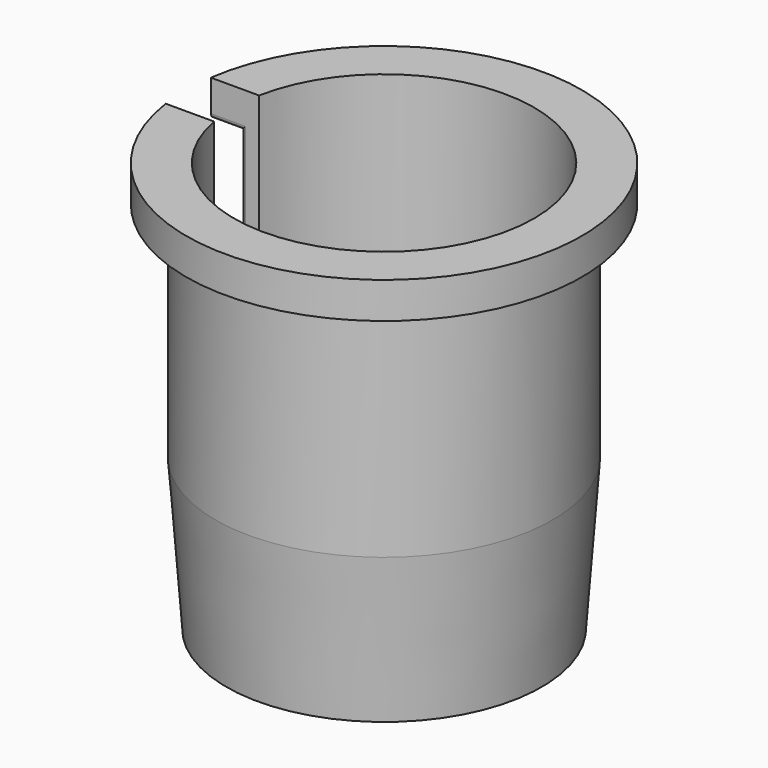
from build123d import *

# Parameters (mm, degrees)
F2_W     = 25.146
F2_H     = 4.7498
F3_DEPTH = 34.6974
F4_R     = 0.381


with BuildPart() as f1:
    # F0 (on Right) → F1 (revolve)
    with BuildSketch(Plane.YZ):
        Polygon((-12.6492, 0.1524), (-12.6492, 34.6964), (-16.6624, 34.6964), (-16.6624, 31.6484), (-14.224, 31.6484), (-14.224, 12.8524), (-13.2842, 0.1524), align=None)
    revolve(axis=Axis((0, 0, 4.6482), (0, 0, -1)))

    # F2 (on Top) → F3 (cut, through all)
    with BuildSketch(Plane.XY):
        with Locations((-12.827, 0)):
            Rectangle(F2_W, F2_H)
    extrude(amount=F3_DEPTH, mode=Mode.SUBTRACT)

    # F4
    f4_edges = [f1.edges().sort_by_distance(p)[0] for p in [
        (-13.547512, -2.3749, 6.502381),
        (-14.024337, -2.3749, 22.2504),
        (-13.547512, 2.3749, 6.502381),
        (-14.024337, 2.3749, 22.2504),
        (-15.25831, -2.3749, 31.6484),
        (-15.25831, 2.3749, 31.6484),
    ]]
    fillet(f4_edges, radius=F4_R)


solid = f1.part
